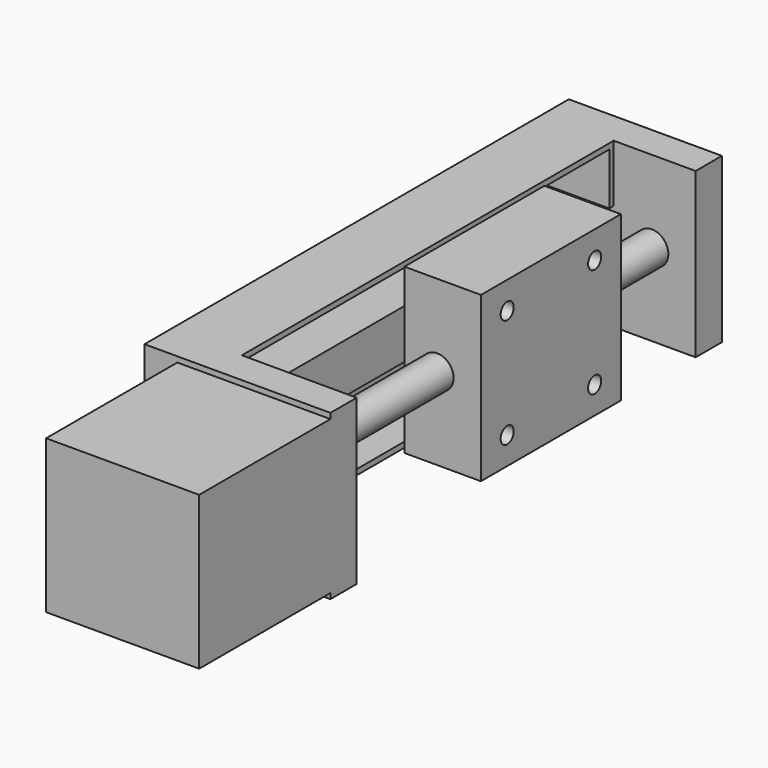
from build123d import *

# Parameters (mm, degrees)
SKETCH003_W             = 30
SKETCH003_H             = 97
PAD002_DEPTH            = 13
SKETCH004_W             = 30
SKETCH004_H             = 6
PAD003_DEPTH            = 15
PAD003_FACE5_W          = 30
PAD003_FACE5_H          = 6
PAD004_DEPTH            = 6
SKETCH005_W             = 28
SKETCH005_H             = 28
PAD005_DEPTH            = 30
SKETCH006_W             = 26
SKETCH006_H             = 26
PAD006_DEPTH            = 1
SKETCH007_W             = 30
SKETCH007_H             = 32
PAD007_DEPTH            = 14
SKETCH008_R             = 1.5
POCKET_DEPTH            = 10
SKETCH009_R             = 3
PAD008_DEPTH            = 85
SKETCH010_W             = 9
SKETCH010_H             = 85
POCKET001_DEPTH         = 4
SKETCH011_R             = 1.5
POCKET002_DEPTH         = 14
SKETCH028_W             = 9.5
SKETCH028_H             = 83
POCKET007_DEPTH         = 12
SKETCH029_W             = 9.5
SKETCH029_H             = 83
POCKET008_DEPTH         = 12
BODY001_PITCH_ANGLE     = -90
BODY001_PLACEMENT_ANGLE = 90


with BuildPart() as part:
    # Sketch003 → Pad002 (new body)
    with BuildSketch(Plane.XZ):
        Rectangle(SKETCH003_W, SKETCH003_H)
    extrude(amount=PAD002_DEPTH)

    # Sketch004 (on Face6 of Pad002) → Pad003 (join)
    with BuildSketch(Plane.XZ.offset(13)):
        with Locations((0, -45.5)):
            Rectangle(SKETCH004_W, SKETCH004_H)
        with Locations((0, 45.5)):
            Rectangle(SKETCH004_W, SKETCH004_H)
    extrude(amount=PAD003_DEPTH)

    # Pad003 Face5 → Pad004 (add)
    with BuildSketch(Plane(origin=(0, -28, 45.5), x_dir=(-1, 0, 0), z_dir=(0, -1, 0))):
        Rectangle(PAD003_FACE5_W, PAD003_FACE5_H)
    extrude(amount=PAD004_DEPTH)

    # Sketch005 (on Face8 of Pad004) → Pad005 (join)
    with BuildSketch(Plane(origin=(0, 0, 48.5), x_dir=(-1, 0, 0), z_dir=(0, 0, 1))):
        with Locations((0, 20)):
            Rectangle(SKETCH005_W, SKETCH005_H)
    extrude(amount=PAD005_DEPTH)

    # Sketch006 (on Face1 of Pad005) → Pad006 (join)
    with BuildSketch(Plane(origin=(0, -13, 10), x_dir=(1, 0, 0), z_dir=(0, -1, 0))):
        with Locations((0, -19.410291)):
            Rectangle(SKETCH006_W, SKETCH006_H)
    extrude(amount=PAD006_DEPTH)

    # Sketch007 (on Face15 of Pad006) → Pad007 (join)
    with BuildSketch(Plane.XZ.offset(14)):
        with Locations((0, -9.410291)):
            Rectangle(SKETCH007_W, SKETCH007_H)
    extrude(amount=PAD007_DEPTH)

    # Sketch008 (on Face24 of Pad007) → Pocket (cut)
    with BuildSketch(Plane.XZ.offset(28)):
        with Locations((-10, 0.589709)):
            Circle(SKETCH008_R)
        with Locations((10, 0.589709)):
            Circle(SKETCH008_R)
        with Locations((10, -19.410291)):
            Circle(SKETCH008_R)
        with Locations((-10, -19.410291)):
            Circle(SKETCH008_R)
    extrude(amount=-POCKET_DEPTH, mode=Mode.SUBTRACT)

    # Sketch009 (on Face5 of Pocket) → Pad008 (join)
    with BuildSketch(Plane(origin=(0, 0, 42.5), x_dir=(1, 0, 0), z_dir=(0, 0, -1))):
        with Locations((0, 20)):
            Circle(SKETCH009_R)
    extrude(amount=PAD008_DEPTH)

    # Sketch010 (on Face1 of Pad008) → Pocket001 (cut)
    with BuildSketch(Plane.XZ.offset(13)):
        Rectangle(SKETCH010_W, SKETCH010_H)
    extrude(amount=-POCKET001_DEPTH, mode=Mode.SUBTRACT)

    # Sketch011 (on Face8 of Pocket001) → Pocket002 (cut)
    with BuildSketch(Plane(origin=(0, 0, 0), x_dir=(1, 0, 0), z_dir=(0, 1, 0))):
        with Locations((-8.5, 27.5)):
            Circle(SKETCH011_R)
        with Locations((8.5, 27.5)):
            Circle(SKETCH011_R)
        with Locations((8.5, -27.5)):
            Circle(SKETCH011_R)
        with Locations((-8.5, -27.5)):
            Circle(SKETCH011_R)
    extrude(amount=-POCKET002_DEPTH, mode=Mode.SUBTRACT)

    # Sketch028 (on Face18 of Pocket002) → Pocket007 (cut)
    with BuildSketch(Plane.XZ.offset(13)):
        with Locations((-9.25, 0)):
            Rectangle(SKETCH028_W, SKETCH028_H)
    extrude(amount=-POCKET007_DEPTH, mode=Mode.SUBTRACT)

    # Sketch029 (on Face1 of Pocket007) → Pocket008 (cut)
    with BuildSketch(Plane.XZ.offset(13)):
        with Locations((9.25, 0)):
            Rectangle(SKETCH029_W, SKETCH029_H)
    extrude(amount=-POCKET008_DEPTH, mode=Mode.SUBTRACT)


with BuildPart() as part_1:
    # Body001 pitch: moved
    add(part.part.rotate(Axis((0, 0, 0), (0, 1, 0)), BODY001_PITCH_ANGLE))


with BuildPart() as part_2:
    # Body001 placement: moved
    add(part_1.part.moved(Location((19, 0, 108))).rotate(Axis((19, 0, 108), (0, 0, 1)), BODY001_PLACEMENT_ANGLE))


solid = part_2.part
